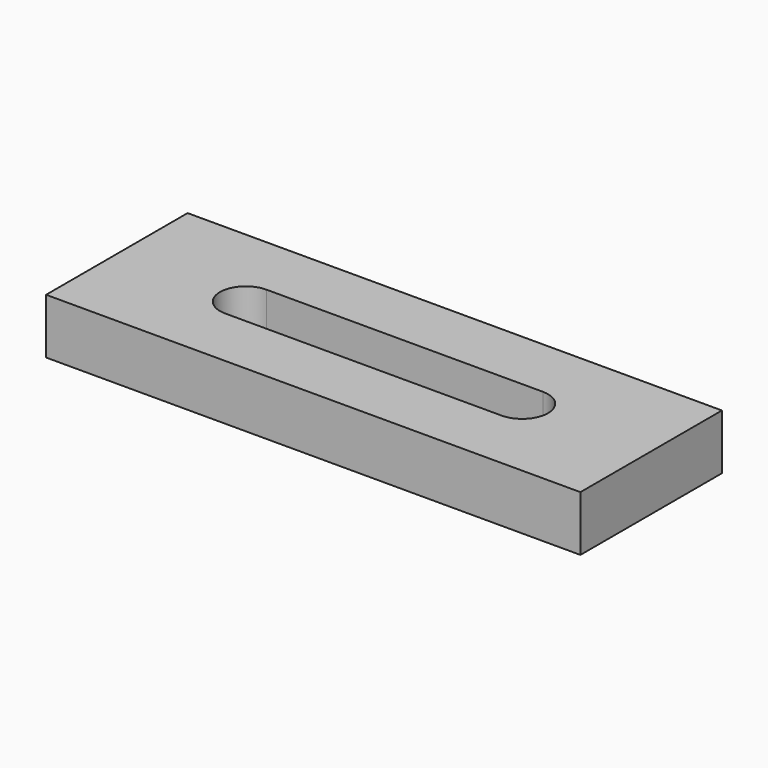
from build123d import *

# Parameters (mm, degrees)
F0_W     = 145
F0_H     = 48
F1_DEPTH = 15
F2_W     = 145
F2_H     = 12
F3_DEPTH = 15


with BuildPart() as f1:
    # F0 (on Top) → F1 (new body)
    with BuildSketch(Plane.XY):
        with Locations((9.905382, -24)):
            Rectangle(F0_W, F0_H)
        with BuildLine():
            ThreePointArc((-27.594618, -31), (-34.594618, -24), (-27.594618, -17))
            Line((-27.594618, -17), (47.405382, -17))
            ThreePointArc((47.405382, -17), (54.405382, -24), (47.405382, -31))
            Line((47.405382, -31), (-27.594618, -31))
        make_face(mode=Mode.SUBTRACT)
    extrude(amount=F1_DEPTH)

    # F2 (on Top) → F3 (join)
    with BuildSketch(Plane.XY):
        with Locations((9.905382, -6)):
            Rectangle(F2_W, F2_H)
    extrude(amount=F3_DEPTH)


solid = f1.part
